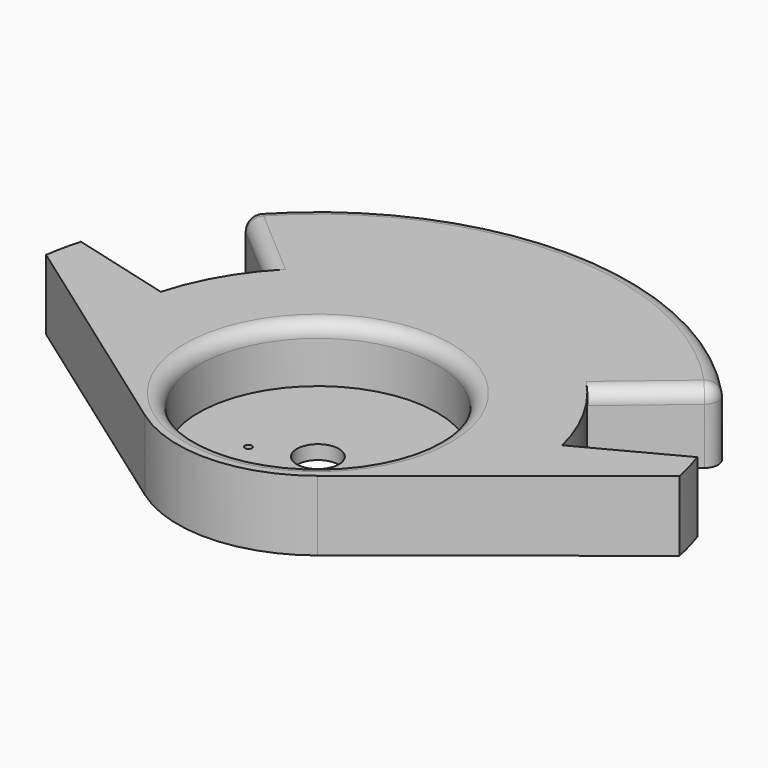
from build123d import *

# Parameters (mm, degrees)
PAD_DEPTH       = 10
SKETCH001_R     = 17
POCKET_DEPTH    = 8
FILLET_R        = 2
FILLET001_R     = 2
SKETCH002_R     = 3
POCKET001_DEPTH = 5
FILLET002_R     = 2
FILLET003_R     = 2
SKETCH003_R     = 0.5
POCKET002_DEPTH = 5


with BuildPart() as part:
    # Sketch → Pad (new body)
    with BuildSketch(Plane.XY):
        with BuildLine():
            ThreePointArc((29.142732, 7.120476), (26.750427, 13.579935), (22.947847, 19.323465))
            Line((22.947847, 19.323465), (34.497449, 29.048923))
            ThreePointArc((34.497449, 29.048923), (0.205805, 45.098466), (-34.230891, 29.362562))
            Line((-22.770532, 19.532099), (-34.230891, 29.362562))
            ThreePointArc((-22.770532, 19.532099), (-26.452647, 14.151236), (-28.885266, 8.101937))
            Line((-28.885266, 8.101937), (-43.374809, 11.984403))
            ThreePointArc((-43.374809, 11.984403), (-43.973621, 9.556182), (-44.436607, 7.098445))
            Line((-44.436607, 7.098445), (-11.603749, -16.289659))
            ThreePointArc((-11.603749, -16.289659), (0.53379, -19.992875), (12.456435, -15.647276))
            Line((43.994501, 9.459593), (12.456435, -15.647276))
            ThreePointArc((43.994501, 9.459593), (43.401023, 11.889122), (42.673487, 14.281929))
            Line((29.142732, 7.120476), (42.673487, 14.281929))
        make_face()
    extrude(amount=PAD_DEPTH)

    # Sketch001 → Pocket (cut)
    with BuildSketch(Plane.XY.offset(10)):
        Circle(SKETCH001_R)
    extrude(amount=-POCKET_DEPTH, mode=Mode.SUBTRACT)

    # Fillet
    fillet_edges = [part.edges().sort_by_distance(p)[0] for p in [
        (-34.230891, 29.362562, 5),
    ]]
    fillet(fillet_edges, radius=FILLET_R)

    # Fillet001
    fillet001_edges = [part.edges().sort_by_distance(p)[0] for p in [
        (34.497449, 29.048923, 5),
    ]]
    fillet(fillet001_edges, radius=FILLET001_R)

    # Sketch002 → Pocket001 (cut)
    with BuildSketch(Plane.XY.offset(2)):
        Circle(SKETCH002_R)
    extrude(amount=-POCKET001_DEPTH, mode=Mode.SUBTRACT)

    # Fillet002
    fillet002_edges = [part.edges().sort_by_distance(p)[0] for p in [
        (-17, 0, 10),
    ]]
    fillet(fillet002_edges, radius=FILLET002_R)

    # Fillet003
    fillet003_edges = [part.edges().sort_by_distance(p)[0] for p in [
        (0.205805, 45.098466, 10),
    ]]
    fillet(fillet003_edges, radius=FILLET003_R)

    # Sketch003 → Pocket002 (cut)
    with BuildSketch(Plane.XY.offset(2)):
        with Locations((7.5, 3)):
            Circle(SKETCH003_R)
        with Locations((-7.5, -3)):
            Circle(SKETCH003_R)
    extrude(amount=-POCKET002_DEPTH, mode=Mode.SUBTRACT)


solid = part.part
